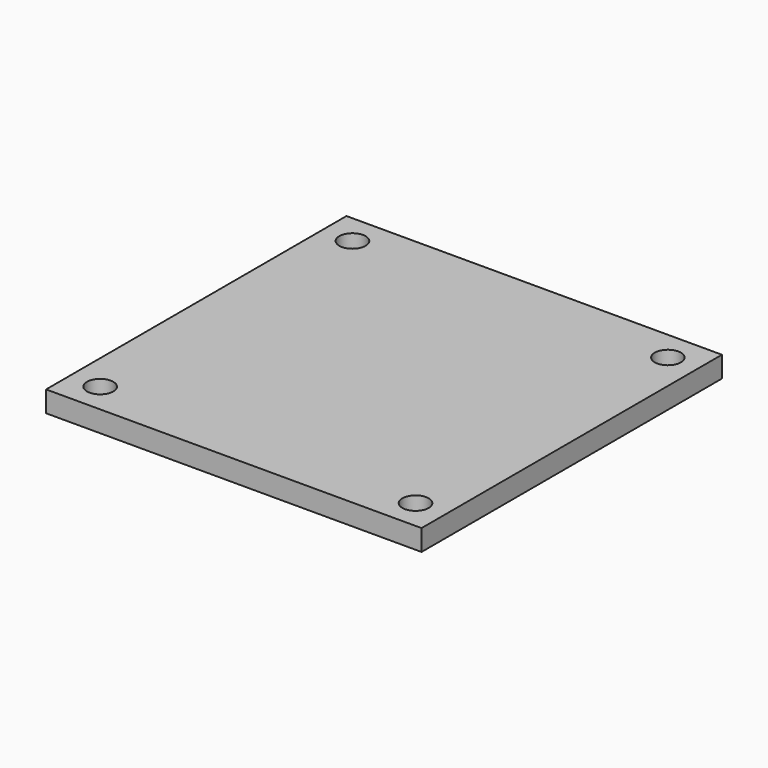
from build123d import *

# Parameters (mm, degrees)
F0_W     = 250
F0_H     = 250
F1_DEPTH = 14
F2_D     = 17.5


with BuildPart() as f1:
    # F0 (on Top) → F1 (new body)
    with BuildSketch(Plane.XY):
        Rectangle(F0_W, F0_H)
    extrude(amount=F1_DEPTH)

    # F2 (through all)
    with Locations(Plane(origin=(0, 0, 0), x_dir=(1, 0, 0), z_dir=(0, 0, -1))):
        with Locations((-105, 105), (105, 105), (-105, -105), (105, -105)):
            Hole(F2_D / 2)


solid = f1.part
